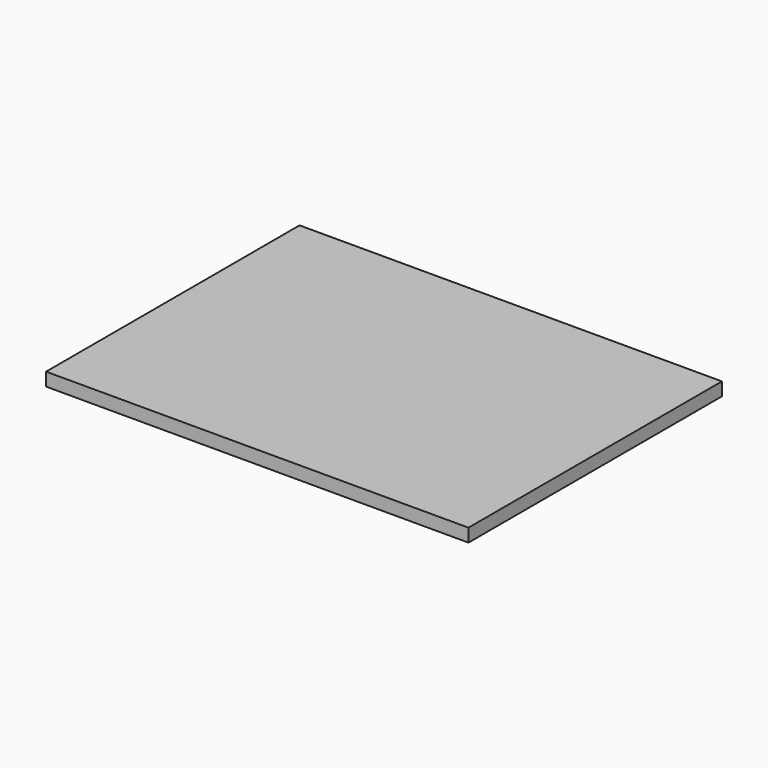
from build123d import *

# Parameters (mm, degrees)
F0_W     = 1828.8
F0_H     = 88.9
F1_DEPTH = 38.1
F3_W     = 1219.2
F3_H     = 914.4
F4_DEPTH = 38.1


with BuildPart() as f1:
    # F0 (on Top) → F1 (new body)
    with BuildSketch(Plane.XY):
        with Locations((914.4, -44.45)):
            Rectangle(F0_W, F0_H)
    extrude(amount=F1_DEPTH)


with BuildPart() as f4:
    # F3 (on Top) → F4 (new body)
    with BuildSketch(Plane.XY):
        with Locations((609.6, 457.2)):
            Rectangle(F3_W, F3_H)
    extrude(amount=F4_DEPTH)


solid = f4.part
